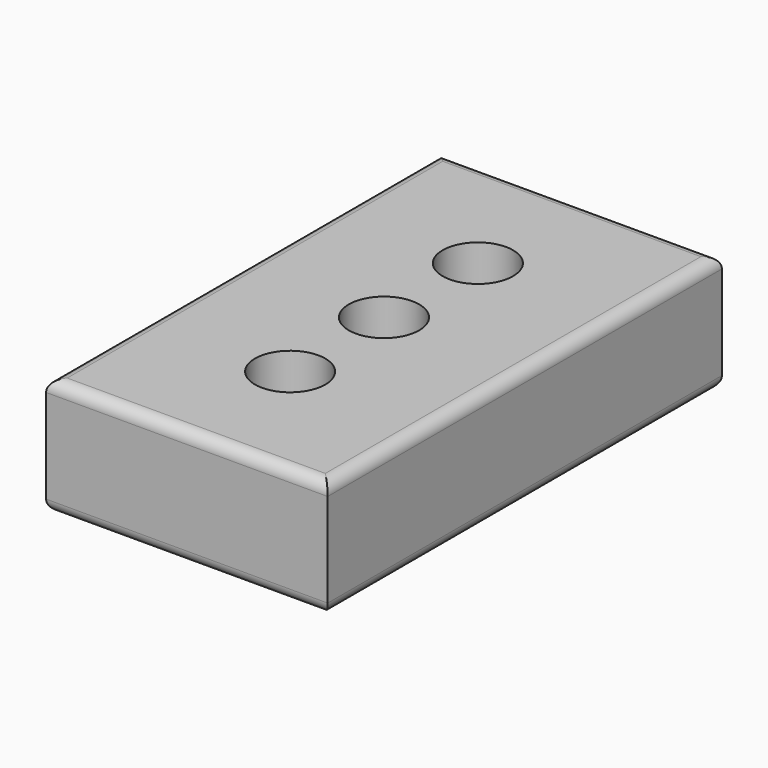
from build123d import *

# Parameters (mm, degrees)
F0_W     = 60
F0_H     = 105
F0_R     = 7.5
F1_DEPTH = 20
F2_DEPTH = 25
F3_R     = 2.5


with BuildPart() as f1:
    # F0 (on Top) → F1 (new body)
    with BuildSketch(Plane.XY):
        Rectangle(F0_W, F0_H)
        with Locations((0, -25)):
            Circle(F0_R, mode=Mode.SUBTRACT)
        Circle(F0_R, mode=Mode.SUBTRACT)
        with Locations((0, 25)):
            Circle(F0_R, mode=Mode.SUBTRACT)
        Rectangle(F0_W, F0_H)
        with Locations((0, -25)):
            Circle(F0_R, mode=Mode.SUBTRACT)
        Circle(F0_R, mode=Mode.SUBTRACT)
        with Locations((0, 25)):
            Circle(F0_R, mode=Mode.SUBTRACT)
    extrude(amount=F1_DEPTH)

    # F0 (on Top) → F2 (join)
    with BuildSketch(Plane.XY):
        Rectangle(F0_W, F0_H)
        with Locations((0, -25)):
            Circle(F0_R, mode=Mode.SUBTRACT)
        Circle(F0_R, mode=Mode.SUBTRACT)
        with Locations((0, 25)):
            Circle(F0_R, mode=Mode.SUBTRACT)
    extrude(amount=F2_DEPTH)

    # F3
    f3_edges = [f1.edges().sort_by_distance(p)[0] for p in [
        (-30, 0, 25),
        (0, 52.5, 25),
        (30, 0, 25),
        (0, -52.5, 25),
        (-30, 0, 0),
        (0, 52.5, 0),
        (30, 0, 0),
        (0, -52.5, 0),
    ]]
    fillet(f3_edges, radius=F3_R)


solid = f1.part
